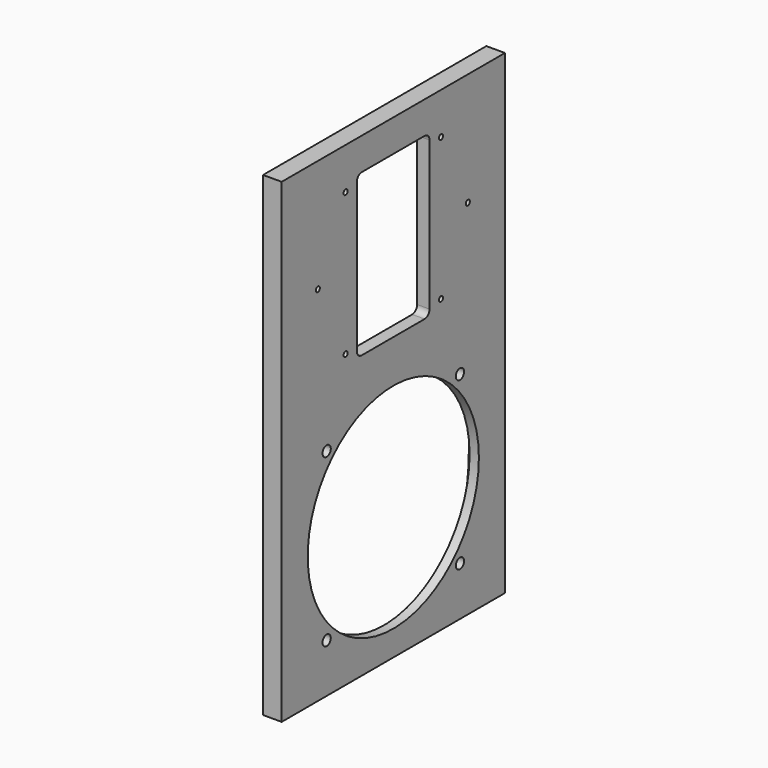
from build123d import *

# Parameters (mm, degrees)
F1_DEPTH = 9
F0_R     = 2.5
F0_R_2   = 51.75
F2_DEPTH = 4.5
F3_R     = 11
F0_R_3   = 1.25
F4_DEPTH = 6


with BuildPart() as f1:
    # F0 (on Right) → F1 (new body)
    with BuildSketch(Plane.YZ):
        Polygon((67.5, -115), (67.5, 115), (0, 115), (-67.5, 115), (-67.5, -115), align=None)
        with BuildLine():
            ThreePointArc((-47.0226009489, -3.9773990511), (-24.0347326375, 3.4781900517), (0, 6))
            ThreePointArc((0, 6), (24.0347326375, 3.4781900517), (47.0226009489, -3.9773990511))
            ThreePointArc((47.0226009489, -3.9773990511), (57, -51), (47.0226009489, -98.0226009489))
            ThreePointArc((47.0226009489, -98.0226009489), (0, -108), (-47.0226009489, -98.0226009489))
            ThreePointArc((-47.0226009489, -98.0226009489), (-57, -51), (-47.0226009489, -3.9773990511))
        make_face(mode=Mode.SUBTRACT)
        with BuildLine():
            ThreePointArc((0, 10.1854634317), (-50.3290897047, 60.4354011911), (0, 110.6853389504))
            ThreePointArc((0, 110.6853389504), (35.4809774891, 95.9395435011), (50.1709102953, 60.4354011911))
            ThreePointArc((50.1709102953, 60.4354011911), (35.4809774891, 24.9312588811), (0, 10.1854634317))
        make_face(mode=Mode.SUBTRACT)
    extrude(amount=-F1_DEPTH)

    # F0 (on Right) → F2 (join)
    with BuildSketch(Plane.YZ):
        with BuildLine():
            ThreePointArc((47.0226009489, -3.9773990511), (24.0347326375, 3.4781900517), (0, 6))
            ThreePointArc((0, 6), (-24.0347326375, 3.4781900517), (-47.0226009489, -3.9773990511))
            ThreePointArc((-47.0226009489, -3.9773990511), (-57, -51), (-47.0226009489, -98.0226009489))
            ThreePointArc((-47.0226009489, -98.0226009489), (0, -108), (47.0226009489, -98.0226009489))
            ThreePointArc((47.0226009489, -98.0226009489), (57, -51), (47.0226009489, -3.9773990511))
        make_face()
        with Locations((-40.3050865276, -91.3050865276)):
            Circle(F0_R, mode=Mode.SUBTRACT)
        with Locations((-40.3050865276, -10.6949134724)):
            Circle(F0_R, mode=Mode.SUBTRACT)
        with Locations((40.3050865276, -91.3050865276)):
            Circle(F0_R, mode=Mode.SUBTRACT)
        with Locations((0, -51)):
            Circle(F0_R_2, mode=Mode.SUBTRACT)
        with Locations((40.3050865276, -10.6949134724)):
            Circle(F0_R, mode=Mode.SUBTRACT)
    extrude(amount=-F2_DEPTH)

    # F3
    f3_edges = [f1.edges().sort_by_distance(p)[0] for p in [
        (-6.75, 47.022601, -3.977399),
        (-6.75, -47.022601, -3.977399),
        (-6.75, -47.022601, -98.022601),
        (-6.75, 47.022601, -98.022601),
    ]]
    fillet(f3_edges, radius=F3_R)

    # F0 (on Right) → F4 (join)
    with BuildSketch(Plane.YZ):
        with BuildLine():
            ThreePointArc((50.1709102953, 60.4354011911), (35.4809774891, 95.9395435011), (0, 110.6853389504))
            Line((0, 110.6853389504), (0, 99.4354011911))
            Line((0, 99.4354011911), (18.9209102953, 99.4354011911))
            ThreePointArc((18.9209102953, 99.4354011911), (21.0422306388, 98.5567215346), (21.9209102953, 96.4354011911))
            Line((21.9209102953, 96.4354011911), (21.9209102953, 24.4354011911))
            ThreePointArc((21.9209102953, 24.4354011911), (21.0422306388, 22.3140808475), (18.9209102953, 21.4354011911))
            Line((18.9209102953, 21.4354011911), (0, 21.4354011911))
            Line((0, 21.4354011911), (0, 10.1854634317))
            ThreePointArc((0, 10.1854634317), (35.4809774891, 24.9312588811), (50.1709102953, 60.4354011911))
        make_face()
        with Locations((28.8463527312, 25.9634012507)):
            Circle(F0_R_3, mode=Mode.SUBTRACT)
        with Locations((28.8463527312, 94.9074011314)):
            Circle(F0_R_3, mode=Mode.SUBTRACT)
        with Locations((45.0773127377, 60.3711940348)):
            Circle(F0_R_3, mode=Mode.SUBTRACT)
        with BuildLine():
            Line((0, 99.4354011911), (0, 110.6853389504))
            ThreePointArc((0, 110.6853389504), (-50.3290897047, 60.4354011911), (0, 10.1854634317))
            Line((0, 10.1854634317), (0, 21.4354011911))
            Line((0, 21.4354011911), (-19.0790897047, 21.4354011911))
            ThreePointArc((-19.0790897047, 21.4354011911), (-21.2004100483, 22.3140808475), (-22.0790897047, 24.4354011911))
            Line((-22.0790897047, 24.4354011911), (-22.0790897047, 96.4354011911))
            ThreePointArc((-22.0790897047, 96.4354011911), (-21.2004100483, 98.5567215346), (-19.0790897047, 99.4354011911))
            Line((-19.0790897047, 99.4354011911), (0, 99.4354011911))
        make_face()
        with Locations((-28.8463527312, 25.9634012507)):
            Circle(F0_R_3, mode=Mode.SUBTRACT)
        with Locations((-45.6305965781, 60.3711940348)):
            Circle(F0_R_3, mode=Mode.SUBTRACT)
        with Locations((-28.8463527312, 94.9074011314)):
            Circle(F0_R_3, mode=Mode.SUBTRACT)
    extrude(amount=-F4_DEPTH)


solid = f1.part
